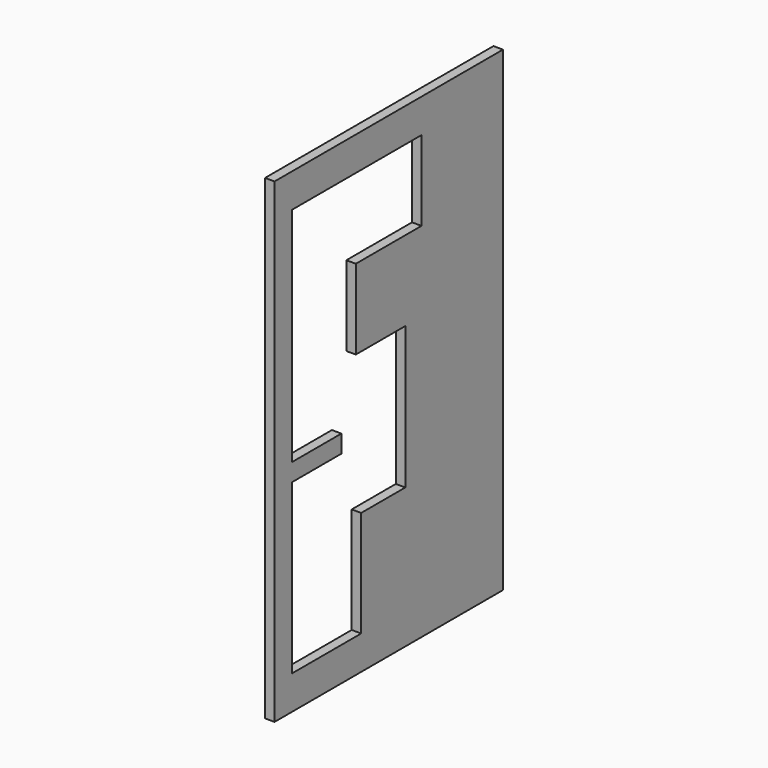
from build123d import *

# Parameters (mm, degrees)
F0_W     = 16.253128
F0_H     = 4.658509
F1_DEPTH = 2.5


with BuildPart() as f1:
    # F0 (on Right) → F1 (new body)
    with BuildSketch(Plane.YZ):
        Polygon((0, 125), (0, 0), (75, 0), (75, 125), (71.19, 125), (50.19, 125), (49.408, 125), (44.505585, 125), align=None)
        Polygon((50.19, 121.19), (71.19, 121.19), (71.19, 3.81), (3.81, 3.81), (3.81, 121.19), (44.505585, 121.19), (49.408, 121.19), align=None, mode=Mode.SUBTRACT)
        Polygon((71.19, 3.81), (71.19, 121.19), (50.19, 121.19), (49.408, 121.19), (44.505585, 121.19), (3.81, 121.19), (3.81, 3.81), align=None)
        Polygon((5.690006, 116.11), (48.26, 116.11), (48.26, 95.11), (26.690006, 95.11), (26.690006, 74.11), (42.943134, 74.11), (42.943134, 36.768509), (28.444385, 36.768509), (28.444385, 8.89), (5.690006, 8.89), (5.690006, 53.11), (5.690006, 57.768509), align=None, mode=Mode.SUBTRACT)
        with Locations((13.81657, 55.439254)):
            Rectangle(F0_W, F0_H)
    extrude(amount=F1_DEPTH)


solid = f1.part
